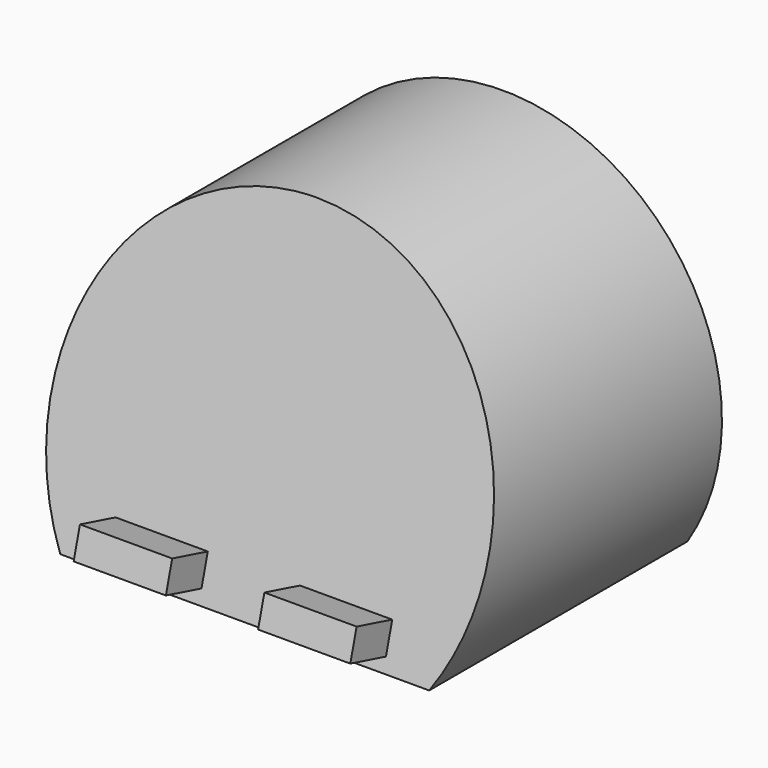
from build123d import *

# Parameters (mm, degrees)
F1_DEPTH = 88.9
F4_DEPTH = 212.726
F5_T     = -5.08
F6_W     = 25.4
F6_H     = 8.382
F7_DEPTH = 12.7
F9_DEPTH = 3.175


with BuildPart() as f1:
    # F0 (on Front) → F1 (new body)
    with BuildSketch(Plane.XZ):
        with BuildLine():
            Line((-50.8, -32.5340686819), (50.8, -32.5340686819))
            ThreePointArc((50.8, -32.5340686819), (0, 60.325), (-50.8, -32.5340686819))
        make_face()
    extrude(amount=-F1_DEPTH)

    # F3 (on offset) → F4 (cut, through all)
    with BuildSketch(Plane.YZ.offset(152.4)):
        Polygon((24.8815124632, 60.325), (0, 60.325), (0, -32.5340686819), align=None)
    extrude(amount=-F4_DEPTH, mode=Mode.SUBTRACT)

    # F5
    f5_openings = [f1.faces().sort_by_distance(p)[0] for p in [
        (0, 88.9, 9.256329),
    ]]
    offset(amount=F5_T, openings=f5_openings)

    # F6 (on face) → F7 (join)
    with BuildSketch(Plane(origin=(0, 8.1335171705, -2.1793693575), x_dir=(1, 0, 0), z_dir=(0, -0.9659258263, 0.2588190451))):
        with Locations((-25.4, -23.4244971741)):
            Rectangle(F6_W, F6_H)
        with Locations((25.4, -23.4244971741)):
            Rectangle(F6_W, F6_H)
    extrude(amount=F7_DEPTH)

    # F8 (on face) → F9 (cut)
    with BuildSketch(Plane(origin=(0, 0, -32.5340686819), x_dir=(1, 0, 0), z_dir=(0, 0, -1))):
        with BuildLine():
            ThreePointArc((41.275, -44.45), (0, -3.175), (-41.275, -44.45))
            Line((-41.275, -44.45), (41.275, -44.45))
        make_face()
        with BuildLine():
            Line((41.275, -44.45), (-41.275, -44.45))
            ThreePointArc((-41.275, -44.45), (0, -85.725), (41.275, -44.45))
        make_face()
    extrude(amount=-F9_DEPTH, mode=Mode.SUBTRACT)


solid = f1.part
